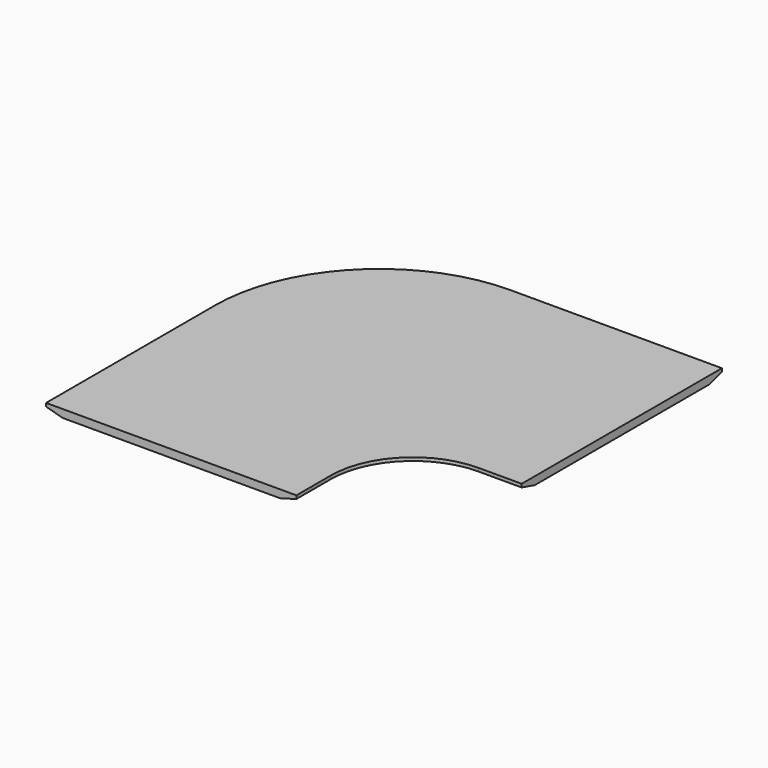
from build123d import *

# Parameters (mm, degrees)
F1_DEPTH = 24


with BuildPart() as f1:
    # F0 (on Top) → F1 (new body)
    with BuildSketch(Plane.XY):
        with BuildLine():
            Line((-131, 0), (0, 0))
            Line((0, 0), (0, 762))
            Line((0, 762), (-643, 762))
            ThreePointArc((-643, 762), (-996.553391, 615.553391), (-1143, 262))
            Line((-1143, 262), (-1143, -381))
            Line((-1143, -381), (-381, -381))
            Line((-381, -381), (-381, -250))
            ThreePointArc((-381, -250), (-307.776695, -73.223305), (-131, 0))
        make_face()
    extrude(amount=F1_DEPTH)

    # F4: sweep along a path in F3
    with BuildLine(Plane(origin=(0, 0, 0), x_dir=(1, 0, 0), z_dir=(0, 0, -1))) as f4_path:
        Line((0, 0), (-131, 0))
        ThreePointArc((-131, 0), (-307.776695, 73.223305), (-381, 250))
        Line((-381, 250), (-381, 381))
    # F2 (on face) → F4 (sweep, cut)
    with BuildSketch(Plane.YZ):
        Polygon((0, 0), (50, 0), (0, 14), align=None)
    sweep(path=f4_path.line, mode=Mode.SUBTRACT)

    # F5: sweep along a path in F3
    with BuildLine(Plane(origin=(0, 0, 0), x_dir=(1, 0, 0), z_dir=(0, 0, -1))) as f5_path:
        Line((0, -762), (-643, -762))
        ThreePointArc((-643, -762), (-996.553391, -615.553391), (-1143, -262))
        Line((-1143, -262), (-1143, 381))
    # F2 (on face) → F5 (sweep, cut)
    with BuildSketch(Plane.YZ):
        Polygon((762, 0), (762, 14), (712, 0), align=None)
    sweep(path=f5_path.line, mode=Mode.SUBTRACT)


solid = f1.part
